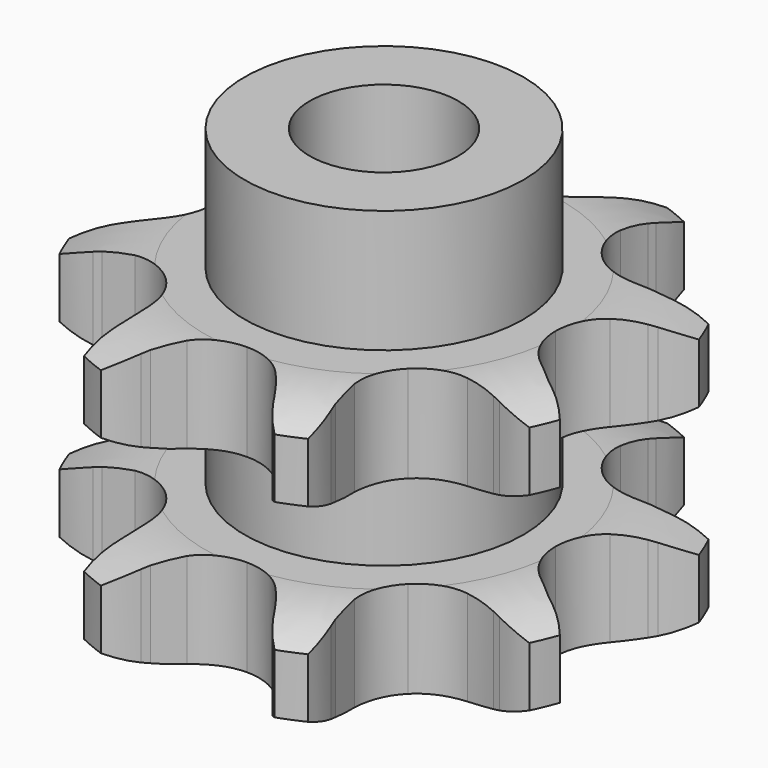
from build123d import *

# Parameters (mm, degrees)
PAD_DEPTH         = 15.4
SKETCH001_R       = 7.5
PAD001_DEPTH      = 22
SKETCH002_R       = 4
POCKET_DEPTH      = 0.001
POCKET_DEPTH_BACK = -22.001


with BuildPart() as part:
    # Sprocket → Pad (new body)
    with BuildSketch(Plane.XY):
        with BuildLine():
            ThreePointArc((-5.766758, 13.922185), (-4.521193, 13.063008), (-3.559374, 11.894879))
            Line((-3.559374, 11.894879), (-3.339197, 11.535583))
            ThreePointArc((-3.339197, 11.535583), (-2.890474, 10.876545), (-2.38065, 10.263548))
            ThreePointArc((-2.38065, 10.263548), (-1.300459, 9.489494), (0, 9.216037))
            ThreePointArc((0, 9.216037), (1.300459, 9.489494), (2.38065, 10.263548))
            ThreePointArc((2.38065, 10.263548), (2.890474, 10.876545), (3.339197, 11.535583))
            Line((3.339197, 11.535583), (3.559374, 11.894879))
            ThreePointArc((3.559374, 11.894879), (4.521193, 13.063008), (5.766758, 13.922185))
            ThreePointArc((5.766758, 13.922185), (6.039975, 12.433907), (5.894092, 10.927807))
            Line((5.894092, 10.927807), (5.79572, 10.518058))
            ThreePointArc((5.79572, 10.518058), (5.647005, 9.734752), (5.574051, 8.940798))
            ThreePointArc((5.574051, 8.940798), (5.790522, 7.629649), (6.516722, 6.516722))
            ThreePointArc((6.516722, 6.516722), (7.629649, 5.790522), (8.940798, 5.574051))
            Line((8.940798, 5.574051), (10.518058, 5.79572))
            ThreePointArc((10.518058, 5.79572), (10.722309, 5.847504), (10.927807, 5.894092))
            ThreePointArc((10.927807, 5.894092), (12.433907, 6.039975), (13.922185, 5.766758))
            ThreePointArc((13.922185, 5.766758), (13.063008, 4.521193), (11.894879, 3.559374))
            Line((11.894879, 3.559374), (11.535583, 3.339197))
            ThreePointArc((11.535583, 3.339197), (10.876545, 2.890474), (10.263548, 2.38065))
            ThreePointArc((10.263548, 2.38065), (9.489494, 1.300459), (9.216037, 0))
            ThreePointArc((9.216037, 0), (9.489494, -1.300459), (10.263548, -2.38065))
            Line((10.263548, -2.38065), (11.535583, -3.339197))
            ThreePointArc((11.535583, -3.339197), (11.716627, -3.447007), (11.894879, -3.559374))
            ThreePointArc((11.894879, -3.559374), (13.063008, -4.521193), (13.922185, -5.766758))
            ThreePointArc((13.922185, -5.766758), (12.433907, -6.039975), (10.927807, -5.894092))
            Line((10.927807, -5.894092), (10.518058, -5.79572))
            ThreePointArc((10.518058, -5.79572), (9.734752, -5.647005), (8.940798, -5.574051))
            ThreePointArc((8.940798, -5.574051), (7.629649, -5.790522), (6.516722, -6.516722))
            ThreePointArc((6.516722, -6.516722), (5.790522, -7.629649), (5.574051, -8.940798))
            Line((5.574051, -8.940798), (5.79572, -10.518058))
            ThreePointArc((5.79572, -10.518058), (5.847504, -10.722309), (5.894092, -10.927807))
            ThreePointArc((5.894092, -10.927807), (6.039975, -12.433907), (5.766758, -13.922185))
            ThreePointArc((5.766758, -13.922185), (4.521193, -13.063008), (3.559374, -11.894879))
            Line((3.559374, -11.894879), (3.339197, -11.535583))
            ThreePointArc((3.339197, -11.535583), (2.890474, -10.876545), (2.38065, -10.263548))
            ThreePointArc((2.38065, -10.263548), (1.300459, -9.489494), (0, -9.216037))
            ThreePointArc((0, -9.216037), (-1.300459, -9.489494), (-2.38065, -10.263548))
            Line((-2.38065, -10.263548), (-3.339197, -11.535583))
            ThreePointArc((-3.339197, -11.535583), (-3.447007, -11.716627), (-3.559374, -11.894879))
            ThreePointArc((-3.559374, -11.894879), (-4.521193, -13.063008), (-5.766758, -13.922185))
            ThreePointArc((-5.766758, -13.922185), (-6.039975, -12.433907), (-5.894092, -10.927807))
            Line((-5.894092, -10.927807), (-5.79572, -10.518058))
            ThreePointArc((-5.79572, -10.518058), (-5.647005, -9.734752), (-5.574051, -8.940798))
            ThreePointArc((-5.574051, -8.940798), (-5.790522, -7.629649), (-6.516722, -6.516722))
            ThreePointArc((-6.516722, -6.516722), (-7.629649, -5.790522), (-8.940798, -5.574051))
            Line((-8.940798, -5.574051), (-10.518058, -5.79572))
            ThreePointArc((-10.518058, -5.79572), (-10.722309, -5.847504), (-10.927807, -5.894092))
            ThreePointArc((-10.927807, -5.894092), (-12.433907, -6.039975), (-13.922185, -5.766758))
            ThreePointArc((-13.922185, -5.766758), (-13.063008, -4.521193), (-11.894879, -3.559374))
            Line((-11.894879, -3.559374), (-11.535583, -3.339197))
            ThreePointArc((-11.535583, -3.339197), (-10.876545, -2.890474), (-10.263548, -2.38065))
            ThreePointArc((-10.263548, -2.38065), (-9.489494, -1.300459), (-9.216037, 0))
            ThreePointArc((-9.216037, 0), (-9.489494, 1.300459), (-10.263548, 2.38065))
            Line((-10.263548, 2.38065), (-11.535583, 3.339197))
            ThreePointArc((-11.535583, 3.339197), (-11.716627, 3.447007), (-11.894879, 3.559374))
            ThreePointArc((-11.894879, 3.559374), (-13.063008, 4.521193), (-13.922185, 5.766758))
            ThreePointArc((-13.922185, 5.766758), (-12.433907, 6.039975), (-10.927807, 5.894092))
            Line((-10.927807, 5.894092), (-10.518058, 5.79572))
            ThreePointArc((-10.518058, 5.79572), (-9.734752, 5.647005), (-8.940798, 5.574051))
            ThreePointArc((-8.940798, 5.574051), (-7.629649, 5.790522), (-6.516722, 6.516722))
            ThreePointArc((-6.516722, 6.516722), (-5.790522, 7.629649), (-5.574051, 8.940798))
            Line((-5.574051, 8.940798), (-5.79572, 10.518058))
            ThreePointArc((-5.79572, 10.518058), (-5.847504, 10.722309), (-5.894092, 10.927807))
            ThreePointArc((-5.894092, 10.927807), (-6.039975, 12.433907), (-5.766758, 13.922185))
        make_face()
    extrude(amount=PAD_DEPTH)

    # Sketch → Groove (revolve, cut)
    with BuildSketch(Plane.XZ):
        with BuildLine():
            Line((9.641101, 0), (19.641101, 0))
            Line((19.641101, 15.4), (19.641101, 0))
            Line((9.641101, 15.4), (19.641101, 15.4))
            ThreePointArc((14, 14.4), (11.877169, 15.146794), (9.641101, 15.4))
            Line((14, 11.2), (14, 14.4))
            ThreePointArc((9.641101, 10.2), (11.877169, 10.453206), (14, 11.2))
            Line((9.641101, 10.2), (7.5, 10.2))
            Line((7.5, 10.2), (7.5, 5.2))
            Line((7.5, 5.2), (9.641101, 5.2))
            ThreePointArc((14, 4.2), (11.877169, 4.946794), (9.641101, 5.2))
            Line((14, 1), (14, 4.2))
            ThreePointArc((9.641101, 0), (11.877169, 0.253206), (14, 1))
        make_face()
    revolve(axis=Axis((0, 0, 0), (0, 0, 1)), mode=Mode.SUBTRACT)

    # Sketch001 → Pad001 (join)
    with BuildSketch(Plane.XY):
        Circle(SKETCH001_R)
    extrude(amount=PAD001_DEPTH)

    # Sketch002 → Pocket (cut, two sides)
    with BuildSketch(Plane.XY) as pocket_sk:
        Circle(SKETCH002_R)
    extrude(amount=-POCKET_DEPTH, mode=Mode.SUBTRACT)
    extrude(pocket_sk.sketch, amount=-POCKET_DEPTH_BACK, mode=Mode.SUBTRACT)


solid = part.part
